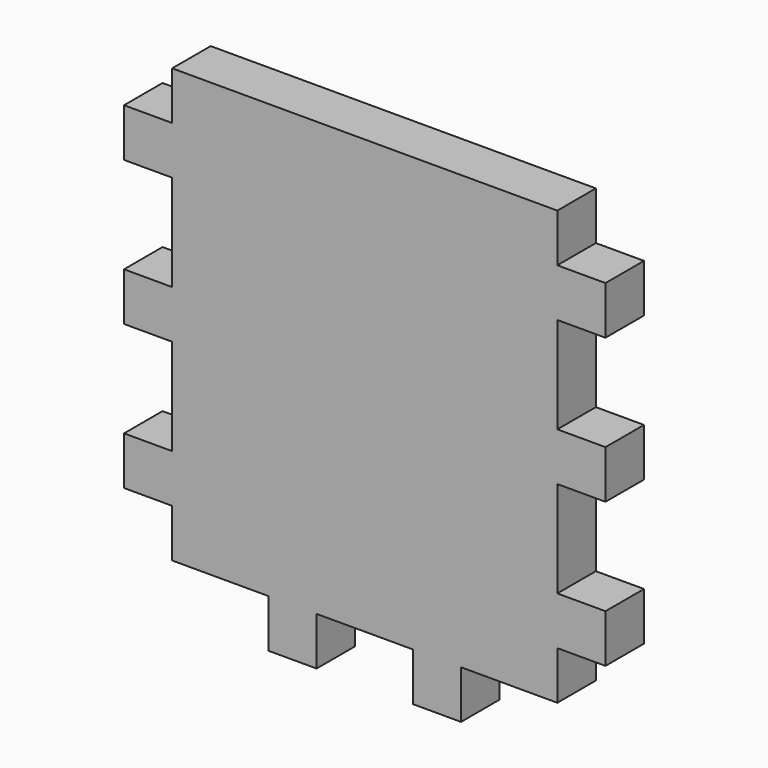
from build123d import *

# Parameters (mm, degrees)
F0_W      = 100
F0_H      = 100
F1_DEPTH  = 10
F2_W      = 10
F2_H      = 10
F3_DEPTH  = 10
F4_W      = 10
F4_H      = 20
F5_DEPTH  = 10
F6_W      = 10
F6_H      = 20
F7_DEPTH  = 10
F8_W      = 10
F8_H      = 20
F9_DEPTH  = 10
F10_W     = 20
F10_H     = 10
F11_DEPTH = 10
F12_W     = 20
F12_H     = 10
F13_DEPTH = 10
F14_W     = 20
F14_H     = 10
F15_DEPTH = 10
F16_W     = 10
F16_H     = 10
F17_DEPTH = 10
F18_W     = 10
F18_H     = 20
F19_DEPTH = 10
F20_W     = 10
F20_H     = 20
F21_DEPTH = 10
F22_W     = 10
F22_H     = 20
F23_DEPTH = 10


with BuildPart() as f1:
    # F0 (on Front) → F1 (new body)
    with BuildSketch(Plane.XZ):
        with Locations((3.271748, -2.17455)):
            Rectangle(F0_W, F0_H)
    extrude(amount=F1_DEPTH)

    # F2 (on face) → F3 (cut)
    with BuildSketch(Plane.XZ.offset(10)):
        with Locations((-41.728252, 42.82545)):
            Rectangle(F2_W, F2_H)
    extrude(amount=-F3_DEPTH, mode=Mode.SUBTRACT)

    # F4 (on face) → F5 (cut)
    with BuildSketch(Plane.XZ.offset(10)):
        with Locations((-41.728252, 17.82545)):
            Rectangle(F4_W, F4_H)
    extrude(amount=-F5_DEPTH, mode=Mode.SUBTRACT)

    # F6 (on face) → F7 (cut)
    with BuildSketch(Plane.XZ.offset(10)):
        with Locations((-41.728252, -12.17455)):
            Rectangle(F6_W, F6_H)
    extrude(amount=-F7_DEPTH, mode=Mode.SUBTRACT)

    # F8 (on face) → F9 (cut)
    with BuildSketch(Plane.XZ.offset(10)):
        with Locations((-41.728252, -42.17455)):
            Rectangle(F8_W, F8_H)
    extrude(amount=-F9_DEPTH, mode=Mode.SUBTRACT)

    # F10 (on face) → F11 (cut)
    with BuildSketch(Plane.XZ.offset(10)):
        with Locations((-26.728252, -47.17455)):
            Rectangle(F10_W, F10_H)
    extrude(amount=-F11_DEPTH, mode=Mode.SUBTRACT)

    # F12 (on face) → F13 (cut)
    with BuildSketch(Plane.XZ.offset(10)):
        with Locations((3.271748, -47.17455)):
            Rectangle(F12_W, F12_H)
    extrude(amount=-F13_DEPTH, mode=Mode.SUBTRACT)

    # F14 (on face) → F15 (cut)
    with BuildSketch(Plane.XZ.offset(10)):
        with Locations((33.271748, -47.17455)):
            Rectangle(F14_W, F14_H)
    extrude(amount=-F15_DEPTH, mode=Mode.SUBTRACT)

    # F16 (on face) → F17 (cut)
    with BuildSketch(Plane.XZ.offset(10)):
        with Locations((48.271748, 42.82545)):
            Rectangle(F16_W, F16_H)
    extrude(amount=-F17_DEPTH, mode=Mode.SUBTRACT)

    # F18 (on face) → F19 (cut)
    with BuildSketch(Plane.XZ.offset(10)):
        with Locations((48.271748, 17.82545)):
            Rectangle(F18_W, F18_H)
    extrude(amount=-F19_DEPTH, mode=Mode.SUBTRACT)

    # F20 (on face) → F21 (cut)
    with BuildSketch(Plane.XZ.offset(10)):
        with Locations((48.271748, -12.17455)):
            Rectangle(F20_W, F20_H)
    extrude(amount=-F21_DEPTH, mode=Mode.SUBTRACT)

    # F22 (on face) → F23 (cut)
    with BuildSketch(Plane.XZ.offset(10)):
        with Locations((48.271748, -42.17455)):
            Rectangle(F22_W, F22_H)
    extrude(amount=-F23_DEPTH, mode=Mode.SUBTRACT)


solid = f1.part
